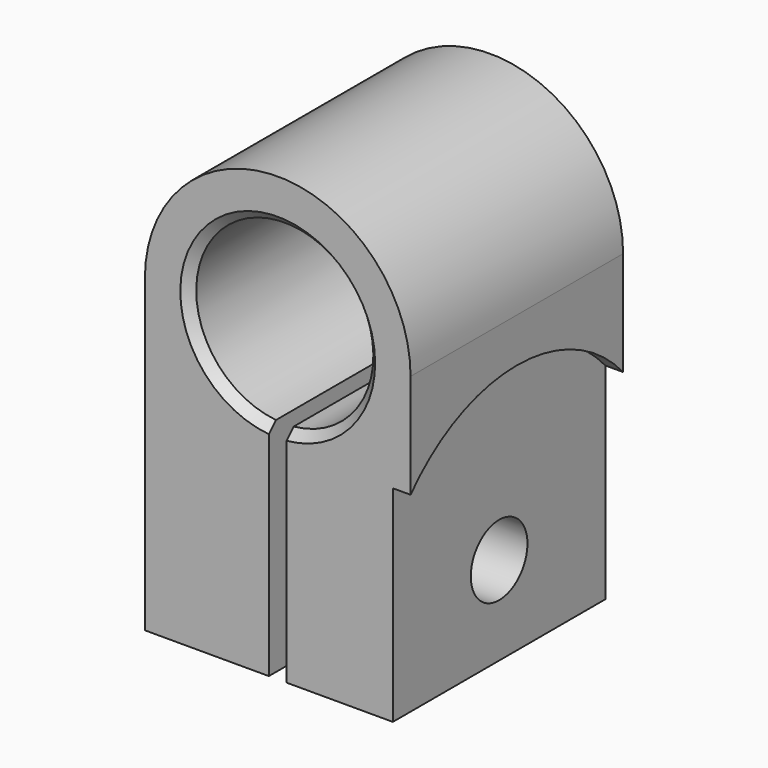
from build123d import *

# Parameters (mm, degrees)
PAD_DEPTH       = 15
POCKET_DEPTH    = 2
SKETCH002_R     = 4
POCKET001_DEPTH = 10
CHAMFER_SIZE    = 1


with BuildPart() as part:
    # Sketch → Pad (new body, symmetric)
    with BuildSketch(Plane.XZ):
        with BuildLine():
            ThreePointArc((1, 25.050126), (0, 45), (-1, 25.050126))
            Line((-1, 0), (-1, 25.050126))
            Line((-1, 0), (-15, 0))
            Line((-15, 0), (-15, 35))
            ThreePointArc((15, 35), (0, 50), (-15, 35))
            Line((15, 35), (15, 0))
            Line((15, 0), (1, 0))
            Line((1, 25.050126), (1, 0))
        make_face()
    extrude(amount=PAD_DEPTH, both=True)

    # Sketch001 (on Face1 of Pad) → Pocket (cut)
    with BuildSketch(Plane(origin=(15, 0, 0), x_dir=(0, 0, 1), z_dir=(1, 0, 0))):
        with BuildLine():
            ThreePointArc((23.228757, -15), (30, 0), (23.228757, 15))
            Line((0, 15), (23.228757, 15))
            Line((0, 15), (0, -15))
            Line((0, -15), (23.228757, -15))
        make_face()
    extrude(amount=-POCKET_DEPTH, mode=Mode.SUBTRACT)

    # Sketch002 (on Face12 of Pocket) → Pocket001 (cut)
    with BuildSketch(Plane(origin=(13, 0, 0), x_dir=(0, 0, 1), z_dir=(1, 0, 0))):
        with Locations((10, 0)):
            Circle(SKETCH002_R)
    extrude(amount=-POCKET001_DEPTH, mode=Mode.SUBTRACT)

    # Chamfer
    chamfer_edges = [part.edges().sort_by_distance(p)[0] for p in [
        (0, -15, 45),
    ]]
    chamfer(chamfer_edges, length=CHAMFER_SIZE)


solid = part.part
